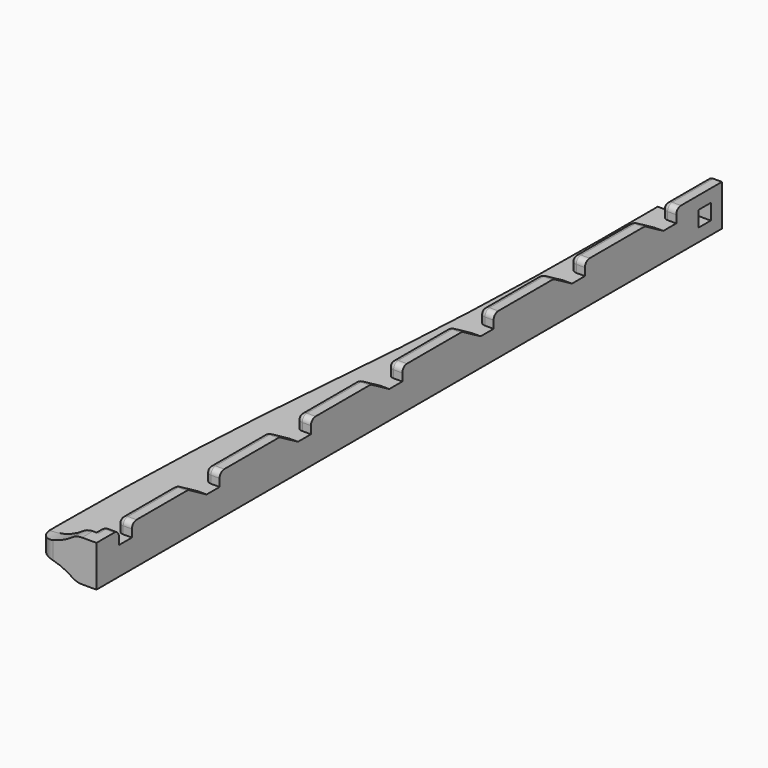
from build123d import *

# Parameters (mm, degrees)
SKETCH025_W             = 5
SKETCH025_H             = 14.2336
PAD013_DEPTH            = 270
PAD012_DEPTH            = 2.5
PAD014_DEPTH            = 4.7
SKETCH024_W             = 5.4
SKETCH024_H             = 5.4
POCKET011_DEPTH         = 2.501
POCKET011_DEPTH_BACK    = 17.501
POCKET013_DEPTH         = 2.501
POCKET013_DEPTH_BACK    = 17.501
LINEARPATTERN001_COUNT  = 6
LINEARPATTERN001_PITCH  = 39.428571
SKETCH028_W             = 5.6
SKETCH028_H             = 4.6168
POCKET012_DEPTH         = 2.501
POCKET012_DEPTH_BACK    = 17.501
FILLET009_R             = 5
FILLET011_R             = 2
BODY006_PLACEMENT_ANGLE = 180


with BuildPart() as part:
    # Sketch025 → Pad013 (new body)
    with BuildSketch(Plane.XZ.offset(-40)):
        Rectangle(SKETCH025_W, SKETCH025_H)
    extrude(amount=PAD013_DEPTH)

    # Sketch026 → Pad012 (join, symmetric)
    with BuildSketch(Plane.XY):
        with BuildLine():
            Line((2.5, -230), (17.5, -230))
            Line((17.5, -230), (17.5, -220))
            ThreePointArc((17.5, -220), (16.249355, -164.943211), (12.5, -110))
            ThreePointArc((7.5, 0), (8.750645, -55.056789), (12.5, -110))
            Line((7.5, 24.8), (7.5, 0))
            Line((2.5, 24.8), (7.5, 24.8))
            Line((2.5, 24.8), (2.5, -230))
        make_face()
    extrude(amount=PAD012_DEPTH, both=True)

    # Sketch023 (on Face5 of Pad012) → Pad014 (join)
    with BuildSketch(Plane.XZ.offset(230)):
        with BuildLine():
            Line((17.5, 2.5), (17.5, -2.5))
            ThreePointArc((17.5, -2.5), (11.43134, -3.37689), (5.913552, -6.051135))
            ThreePointArc((2.5, -7.1168), (4.288014, -6.844191), (5.913552, -6.051135))
            Line((-2.5, -7.1168), (2.5, -7.1168))
            Line((-2.5, -7.1168), (-2.5, 7.1168))
            Line((-2.5, 7.1168), (2.5, 7.1168))
            ThreePointArc((5.913552, 6.051135), (4.288014, 6.844191), (2.5, 7.1168))
            ThreePointArc((5.913552, 6.051135), (11.43134, 3.37689), (17.5, 2.5))
        make_face()
    extrude(amount=-PAD014_DEPTH)

    # Sketch024 → Pocket011 (cut, two sides)
    with BuildSketch(Plane.YZ) as pocket011_sk:
        with Locations((32.5, 0)):
            Rectangle(SKETCH024_W, SKETCH024_H)
    extrude(amount=-POCKET011_DEPTH, mode=Mode.SUBTRACT)
    extrude(pocket011_sk.sketch, amount=POCKET011_DEPTH_BACK, mode=Mode.SUBTRACT)

    # Sketch027 → Pocket013 (cut, two sides)
    with BuildSketch(Plane.YZ) as pocket013_sk:
        Polygon((6.703468, -7.1168), (20.3, -7.1168), (20.3, -2.5), (14.7, -2.5), align=None)
    pocket013 = extrude(amount=-POCKET013_DEPTH, mode=Mode.SUBTRACT) + extrude(pocket013_sk.sketch, amount=POCKET013_DEPTH_BACK, mode=Mode.SUBTRACT)

    # LinearPattern001: Pocket013 ×6
    with Locations(*[(0, -i * LINEARPATTERN001_PITCH, 0) for i in range(1, LINEARPATTERN001_COUNT)]):
        add(pocket013, mode=Mode.SUBTRACT)

    # Sketch028 → Pocket012 (cut, two sides)
    with BuildSketch(Plane.YZ) as pocket012_sk:
        with Locations((-217.5, -4.8084)):
            Rectangle(SKETCH028_W, SKETCH028_H)
    extrude(amount=-POCKET012_DEPTH, mode=Mode.SUBTRACT)
    extrude(pocket012_sk.sketch, amount=POCKET012_DEPTH_BACK, mode=Mode.SUBTRACT)

    # Fillet009
    fillet009_edges = [part.edges().sort_by_distance(p)[0] for p in [
        (17.5, -230, 0),
    ]]
    fillet(fillet009_edges, radius=FILLET009_R)

    # Fillet011
    fillet011_edges = [part.edges().sort_by_distance(p)[0] for p in [
        (2.5, -222.8, -7.1168),
        (0, -220.3, -7.1168),
        (2.5, -220.3, -4.8084),
        (0, -214.7, -7.1168),
        (2.5, -214.7, -4.8084),
        (2.5, -202.569695, -7.1168),
        (0, -190.439389, -7.1168),
        (2.5, -186.441123, -4.8084),
        (0, -176.842857, -7.1168),
        (2.5, -176.842857, -4.8084),
        (2.5, -163.926838, -7.1168),
        (0, -151.010818, -7.1168),
        (2.5, -147.012552, -4.8084),
        (0, -137.414286, -7.1168),
        (2.5, -137.414286, -4.8084),
        (2.5, -124.498266, -7.1168),
        (0, -111.582246, -7.1168),
        (2.5, -107.58398, -4.8084),
        (2.5, -85.069695, -7.1168),
        (0, -97.985714, -7.1168),
        (2.5, -97.985714, -4.8084),
        (0, -72.153675, -7.1168),
        (2.5, -68.155409, -4.8084),
        (0, -58.557143, -7.1168),
        (2.5, -58.557143, -4.8084),
        (2.5, -45.641123, -7.1168),
        (0, -32.725104, -7.1168),
        (2.5, -28.726838, -4.8084),
        (0, -19.128571, -7.1168),
        (2.5, -19.128571, -4.8084),
        (2.5, -6.212552, -7.1168),
        (0, 6.703468, -7.1168),
        (2.5, 10.701734, -4.8084),
        (2.5, 20.3, -4.8084),
        (0, 20.3, -7.1168),
        (2.5, 30.15, -7.1168),
        (2.5, -92.65, 7.1168),
    ]]
    fillet(fillet011_edges, radius=FILLET011_R)


with BuildPart() as part_1:
    # Body006 placement: moved
    add(part.part.moved(Location((-28.4159, -10, 78.239))).rotate(Axis((-28.4159, -10, 78.239), (0, 1, 0)), BODY006_PLACEMENT_ANGLE))


solid = part_1.part
